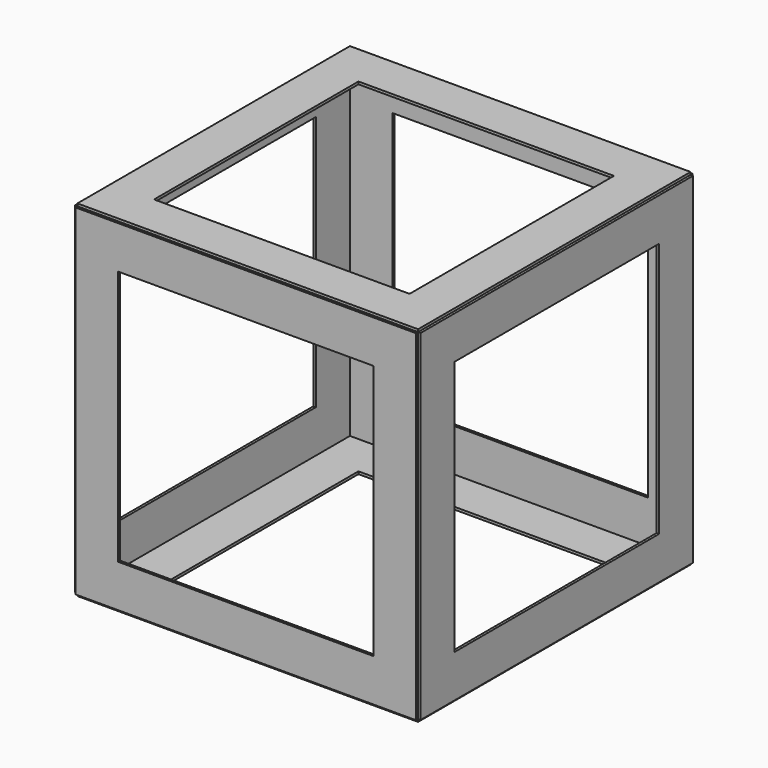
from build123d import *

# Parameters (mm, degrees)
SKETCH001_W   = 406.4
SKETCH001_H   = 406.4
SKETCH001_W_2 = 304.8
SKETCH001_H_2 = 304.8
PAD_DEPTH     = 3
SKETCH005_W   = 406.4
SKETCH005_H   = 406.4
SKETCH005_W_2 = 304.8
SKETCH005_H_2 = 304.8
PAD001_DEPTH  = 3
SKETCH002_W   = 406.4
SKETCH002_H   = 406.4
SKETCH002_W_2 = 304.8
SKETCH002_H_2 = 304.8
PAD002_DEPTH  = 3
SKETCH_W      = 406.4
SKETCH_H      = 406.4
SKETCH_W_2    = 304.8
SKETCH_H_2    = 304.8
PAD003_DEPTH  = 3
SKETCH004_W   = 406.4
SKETCH004_H   = 406.4
SKETCH004_W_2 = 304.8
SKETCH004_H_2 = 304.8
PAD004_DEPTH  = 3
SKETCH003_W   = 406.4
SKETCH003_H   = 406.4
SKETCH003_W_2 = 304.8
SKETCH003_H_2 = 304.8
PAD005_DEPTH  = 3


with BuildPart() as pad:
    # Sketch001 → Pad (new body)
    with BuildSketch(Plane(origin=(0, 0, 406.4), x_dir=(0, 1, 0), z_dir=(0, 0, -1))):
        with Locations((203.2, 203.2)):
            Rectangle(SKETCH001_W, SKETCH001_H)
        with Locations((203.2, 203.2)):
            Rectangle(SKETCH001_W_2, SKETCH001_H_2, mode=Mode.SUBTRACT)
    extrude(amount=-PAD_DEPTH)


with BuildPart() as pad001:
    # Sketch005 → Pad001 (new body)
    with BuildSketch(Plane.XZ):
        with Locations((203.2, 203.2)):
            Rectangle(SKETCH005_W, SKETCH005_H)
        with Locations((203.2, 203.2)):
            Rectangle(SKETCH005_W_2, SKETCH005_H_2, mode=Mode.SUBTRACT)
    extrude(amount=PAD001_DEPTH)


with BuildPart() as pad002:
    # Sketch002 → Pad002 (new body)
    with BuildSketch(Plane(origin=(406.4, 4.8e-05, 0), x_dir=(0, 1, 0), z_dir=(1, 0, 0))):
        with Locations((203.2, 203.2)):
            Rectangle(SKETCH002_W, SKETCH002_H)
        with Locations((203.2, 203.2)):
            Rectangle(SKETCH002_W_2, SKETCH002_H_2, mode=Mode.SUBTRACT)
    extrude(amount=PAD002_DEPTH)


with BuildPart() as pad003:
    # Sketch → Pad003 (new body)
    with BuildSketch(Plane.XZ.offset(-406.400048)):
        with Locations((203.2, 203.2)):
            Rectangle(SKETCH_W, SKETCH_H)
        with Locations((203.2, 203.2)):
            Rectangle(SKETCH_W_2, SKETCH_H_2, mode=Mode.SUBTRACT)
    extrude(amount=-PAD003_DEPTH)


with BuildPart() as pad004:
    # Sketch004 → Pad004 (new body)
    with BuildSketch(Plane.YZ):
        with Locations((203.2, 203.2)):
            Rectangle(SKETCH004_W, SKETCH004_H)
        with Locations((203.2, 203.2)):
            Rectangle(SKETCH004_W_2, SKETCH004_H_2, mode=Mode.SUBTRACT)
    extrude(amount=-PAD004_DEPTH)


with BuildPart() as pad005:
    # Sketch003 → Pad005 (new body)
    with BuildSketch(Plane(origin=(0, 0, 0), x_dir=(0, 1, 0), z_dir=(0, 0, -1))):
        with Locations((203.2, 203.2)):
            Rectangle(SKETCH003_W, SKETCH003_H)
        with Locations((203.2, 203.2)):
            Rectangle(SKETCH003_W_2, SKETCH003_H_2, mode=Mode.SUBTRACT)
    extrude(amount=PAD005_DEPTH)


solid = Compound([pad.part, pad001.part, pad002.part, pad003.part, pad004.part, pad005.part])
